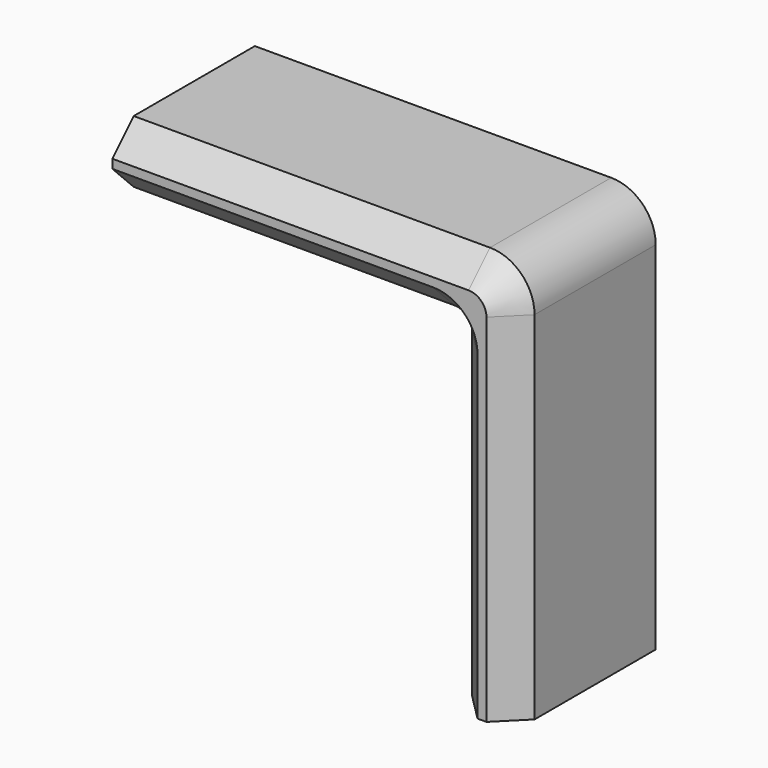
from build123d import *

# Parameters (mm, degrees)
F1_DEPTH = 12.7
F2_SIZE  = 3.81
F3_R     = 1.27
F4_DEPTH = 7.62


with BuildPart() as f1:
    # F0 (on Front) → F1 (new body, symmetric)
    with BuildSketch(Plane.XZ):
        with BuildLine():
            Line((0, -25.4), (0, 25.4))
            ThreePointArc((0, 25.4), (-1.8598719395, 29.8901280605), (-6.35, 31.75))
            Line((-6.35, 31.75), (-57.15, 31.75))
            Line((-57.15, 31.75), (-57.15, 22.86))
            Line((-57.15, 22.86), (-11.43, 22.86))
            ThreePointArc((-11.43, 22.86), (-9.6339487758, 22.1160512242), (-8.89, 20.32))
            Line((-8.89, 20.32), (-8.89, -25.4))
            Line((-8.89, -25.4), (0, -25.4))
        make_face()
    extrude(amount=F1_DEPTH, both=True)

    # F2
    f2_edges = [f1.edges().sort_by_distance(p)[0] for p in [
        (-31.75, -12.7, 31.75),
        (-34.29, -12.7, 22.86),
    ]]
    chamfer(f2_edges, length=F2_SIZE)

    # F3 (on face) → F4 (cut)
    with BuildSketch(Plane(origin=(-8.89, 0, 0), x_dir=(0, -1, 0), z_dir=(-1, 0, 0))):
        with Locations((-1.905, 3.81)):
            Circle(F3_R)
    extrude(amount=-F4_DEPTH, mode=Mode.SUBTRACT)


solid = f1.part
